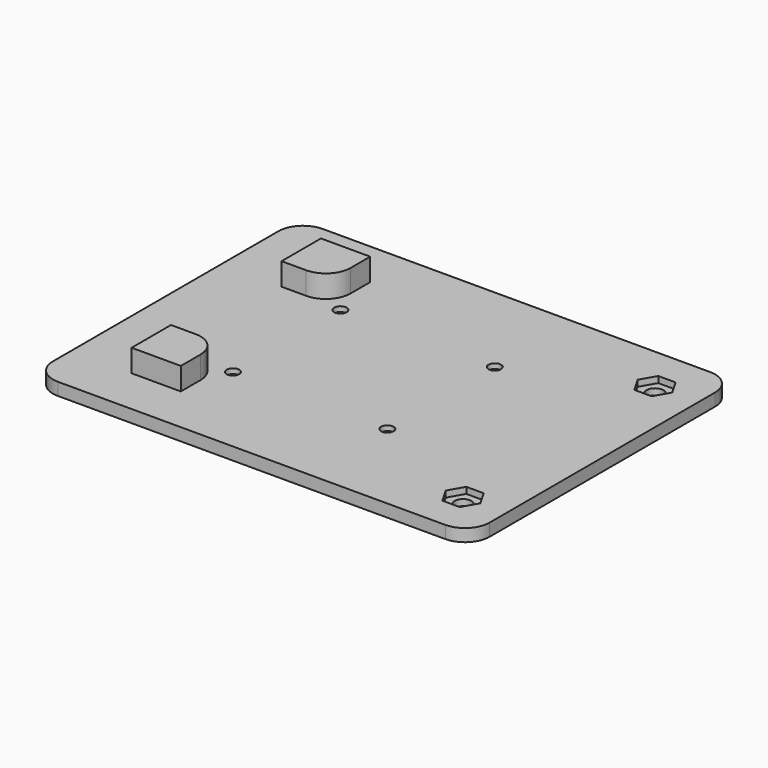
from build123d import *

# Parameters (mm, degrees)
F0_R     = 1.27
F0_R_2   = 1.7145
F1_DEPTH = 2.54
F3_DEPTH = 1.524
F4_R     = 1
F6_DEPTH = 1.27
F7_W     = 10
F7_H     = 10
F8_DEPTH = 4.572
F9_R     = 5


with BuildPart() as f1:
    # F0 (on Top) → F1 (new body)
    with BuildSketch(Plane.XY):
        with BuildLine():
            Line((39.37, 33.6385), (-39.37, 33.6385))
            ThreePointArc((-39.37, 33.6385), (-42.905534, 32.174034), (-44.37, 28.6385))
            Line((-44.37, 28.6385), (-44.37, -28.6385))
            ThreePointArc((-44.37, -28.6385), (-42.905534, -32.174034), (-39.37, -33.6385))
            Line((-39.37, -33.6385), (39.37, -33.6385))
            ThreePointArc((39.37, -33.6385), (42.905534, -32.174034), (44.37, -28.6385))
            Line((44.37, -28.6385), (44.37, 28.6385))
            ThreePointArc((44.37, 28.6385), (42.905534, 32.174034), (39.37, 33.6385))
        make_face()
        with Locations((-19.779271, -13.6525)):
            Circle(F0_R, mode=Mode.SUBTRACT)
        Polygon((39.079527, -24.384), (37.319764, -27.432), (33.800236, -27.432), (32.040473, -24.384), (33.800236, -21.336), (37.319764, -21.336), align=None, mode=Mode.SUBTRACT)
        with Locations((11.589729, -13.6525)):
            Circle(F0_R, mode=Mode.SUBTRACT)
        with Locations((-19.779271, 13.6525)):
            Circle(F0_R, mode=Mode.SUBTRACT)
        with Locations((11.589729, 13.6525)):
            Circle(F0_R, mode=Mode.SUBTRACT)
        Polygon((39.079527, 24.384), (37.319764, 21.336), (33.800236, 21.336), (32.040473, 24.384), (33.800236, 27.432), (37.319764, 27.432), align=None, mode=Mode.SUBTRACT)
        Polygon((33.800236, 21.336), (37.319764, 21.336), (39.079527, 24.384), (37.319764, 27.432), (33.800236, 27.432), (32.040473, 24.384), align=None)
        with Locations((35.56, 24.384)):
            Circle(F0_R_2, mode=Mode.SUBTRACT)
        Polygon((33.800236, -27.432), (37.319764, -27.432), (39.079527, -24.384), (37.319764, -21.336), (33.800236, -21.336), (32.040473, -24.384), align=None)
        with Locations((35.56, -24.384)):
            Circle(F0_R_2, mode=Mode.SUBTRACT)
    extrude(amount=F1_DEPTH)

    # F2 (on face) → F3 (cut)
    with BuildSketch(Plane(origin=(0, 0, 0), x_dir=(1, 0, 0), z_dir=(0, 0, -1))):
        with BuildLine():
            Line((11.399229, 16.764), (-19.588771, 16.764))
            ThreePointArc((-19.588771, 16.764), (-21.923637, 15.796867), (-22.890771, 13.462))
            Line((-22.890771, 13.462), (-22.890771, -13.462))
            ThreePointArc((-22.890771, -13.462), (-21.923637, -15.796867), (-19.588771, -16.764))
            Line((-19.588771, -16.764), (11.399229, -16.764))
            ThreePointArc((11.399229, -16.764), (13.734096, -15.796867), (14.701229, -13.462))
            Line((14.701229, -13.462), (14.701229, 13.462))
            ThreePointArc((14.701229, 13.462), (13.734096, 15.796867), (11.399229, 16.764))
        make_face()
        with BuildLine():
            Line((-21.239771, -10.471786), (-21.239771, 10.471786))
            ThreePointArc((-21.239771, 10.471786), (-17.304397, 11.177626), (-16.598557, 15.113))
            Line((-16.598557, 15.113), (8.409016, 15.113))
            ThreePointArc((8.409016, 15.113), (9.114856, 11.177626), (13.050229, 10.471786))
            Line((13.050229, 10.471786), (13.050229, -10.471786))
            ThreePointArc((13.050229, -10.471786), (9.114856, -11.177626), (8.409016, -15.113))
            Line((8.409016, -15.113), (-16.598557, -15.113))
            ThreePointArc((-16.598557, -15.113), (-17.304397, -11.177626), (-21.239771, -10.471786))
        make_face(mode=Mode.SUBTRACT)
    extrude(amount=-F3_DEPTH, mode=Mode.SUBTRACT)

    # F4
    f4_edges = [f1.edges().sort_by_distance(p)[0] for p in [
        (-17.304397, 11.177626, 0),
        (-4.094771, 15.113, 0),
        (9.114856, 11.177626, 0),
        (13.050229, 0, 0),
        (9.114856, -11.177626, 0),
        (-4.094771, -15.113, 0),
        (-17.304397, -11.177626, 0),
        (-21.239771, 0, 0),
        (-22.890771, 0, 0),
        (-21.923637, -15.796867, 0),
    ]]
    fillet(f4_edges, radius=F4_R)

    # F5 (on face) → F6 (cut)
    with BuildSketch(Plane.XY.offset(2.54)):
        Polygon((33.800236, 27.432), (32.040473, 24.384), (33.800236, 21.336), (37.319764, 21.336), (39.079527, 24.384), (37.319764, 27.432), align=None)
        Polygon((33.800236, -21.336), (32.040473, -24.384), (33.800236, -27.432), (37.319764, -27.432), (39.079527, -24.384), (37.319764, -21.336), align=None)
    extrude(amount=-F6_DEPTH, mode=Mode.SUBTRACT)

    # F7 (on face) → F8 (join)
    with BuildSketch(Plane.XY.offset(2.54)):
        with Locations((-27.051, 19.05)):
            Rectangle(F7_W, F7_H)
        with Locations((-27.051, -19.05)):
            Rectangle(F7_W, F7_H)
    extrude(amount=F8_DEPTH)

    # F9
    f9_edges = [f1.edges().sort_by_distance(p)[0] for p in [
        (-22.051, -14.05, 4.826),
        (-22.051, 14.05, 4.826),
    ]]
    fillet(f9_edges, radius=F9_R)


solid = f1.part
